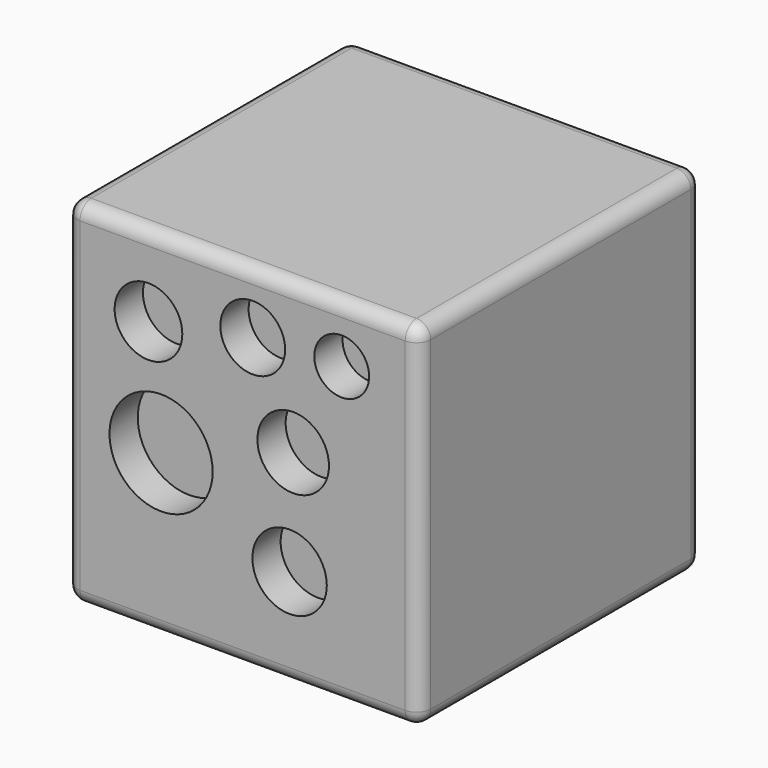
from build123d import *

# Parameters (mm, degrees)
F0_W     = 50
F0_H     = 50
F1_DEPTH = 50
F2_R     = 2
F3_R     = 4.785711
F3_R_2   = 7.295538
F3_R_3   = 5.063059
F3_R_4   = 4.583879
F3_R_5   = 3.87498
F3_R_6   = 5.263405
F4_DEPTH = 5


with BuildPart() as f1:
    # F0 (on Front) → F1 (new body)
    with BuildSketch(Plane.XZ):
        with Locations((3.28275, 0.654186)):
            Rectangle(F0_W, F0_H)
    extrude(amount=F1_DEPTH)

    # F2
    f2_edges = [f1.edges().sort_by_distance(p)[0] for p in [
        (-21.71725, -25, 25.654186),
        (-21.71725, -25, -24.345814),
        (-21.71725, 0, 0.654186),
        (-21.71725, -50, 0.654186),
        (28.28275, -50, 0.654186),
        (3.28275, -50, 25.654186),
        (3.28275, -50, -24.345814),
        (28.28275, -25, -24.345814),
        (3.28275, 0, -24.345814),
        (28.28275, -25, 25.654186),
        (28.28275, 0, 0.654186),
        (3.28275, 0, 25.654186),
    ]]
    fillet(f2_edges, radius=F2_R)

    # F3 (on face) → F4 (cut)
    with BuildSketch(Plane.XZ.offset(50)):
        with Locations((-10.032591, 14.261485)):
            Circle(F3_R)
        with Locations((-8.252717, -1.503121)):
            Circle(F3_R_2)
        with Locations((10.435971, 4.599307)):
            Circle(F3_R_3)
        with Locations((4.714944, 17.058432)):
            Circle(F3_R_4)
        with Locations((17.301202, 17.566968)):
            Circle(F3_R_5)
        with Locations((9.927436, -10.402496)):
            Circle(F3_R_6)
    extrude(amount=-F4_DEPTH, mode=Mode.SUBTRACT)


solid = f1.part
